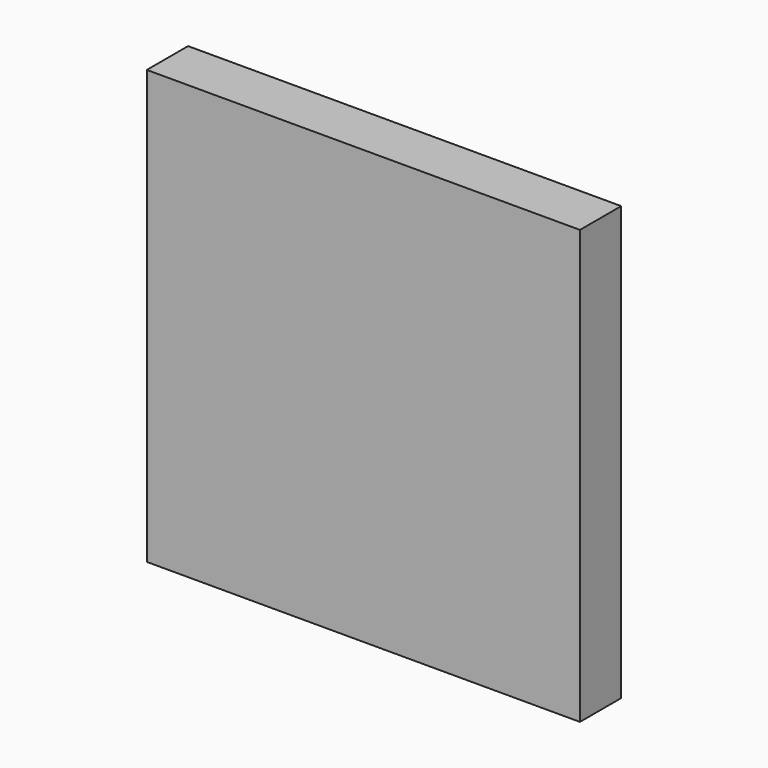
from build123d import *

# Parameters (mm, degrees)
F0_W     = 42
F0_H     = 42
F1_DEPTH = 5
F3_DEPTH = 3


with BuildPart() as f1:
    # F0 (on Front) → F1 (new body)
    with BuildSketch(Plane.XZ):
        Rectangle(F0_W, F0_H)
    extrude(amount=F1_DEPTH)

    # F2 (on face) → F3 (cut)
    with BuildSketch(Plane(origin=(0, 0, 0), x_dir=(-1, 0, 0), z_dir=(0, 1, 0))):
        Polygon((-10.5, 10.5), (-20, 20), (-20, 1), align=None)
        Polygon((-1, 1), (-10.5, 10.5), (-20, 1), align=None)
        Polygon((-1, 20), (-10.5, 10.5), (-1, 1), align=None)
        Polygon((-1, 20), (-20, 20), (-10.5, 10.5), align=None)
        Polygon((20, 1), (10.5, 10.5), (1, 1), align=None)
        Polygon((20, 20), (10.5, 10.5), (20, 1), align=None)
        Polygon((10.5, 10.5), (1, 20), (1, 1), align=None)
        Polygon((20, 20), (1, 20), (10.5, 10.5), align=None)
        Polygon((10.5, -10.5), (20, -1), (1, -1), align=None)
        Polygon((1, -1), (1, -20), (10.5, -10.5), align=None)
        Polygon((20, -20), (20, -1), (10.5, -10.5), align=None)
        Polygon((-1, -20), (-10.5, -10.5), (-20, -20), align=None)
        Polygon((10.5, -10.5), (1, -20), (20, -20), align=None)
        Polygon((-1, -1), (-10.5, -10.5), (-1, -20), align=None)
        Polygon((-1, -1), (-20, -1), (-10.5, -10.5), align=None)
        Polygon((-10.5, -10.5), (-20, -1), (-20, -20), align=None)
    extrude(amount=-F3_DEPTH, mode=Mode.SUBTRACT)


solid = f1.part
